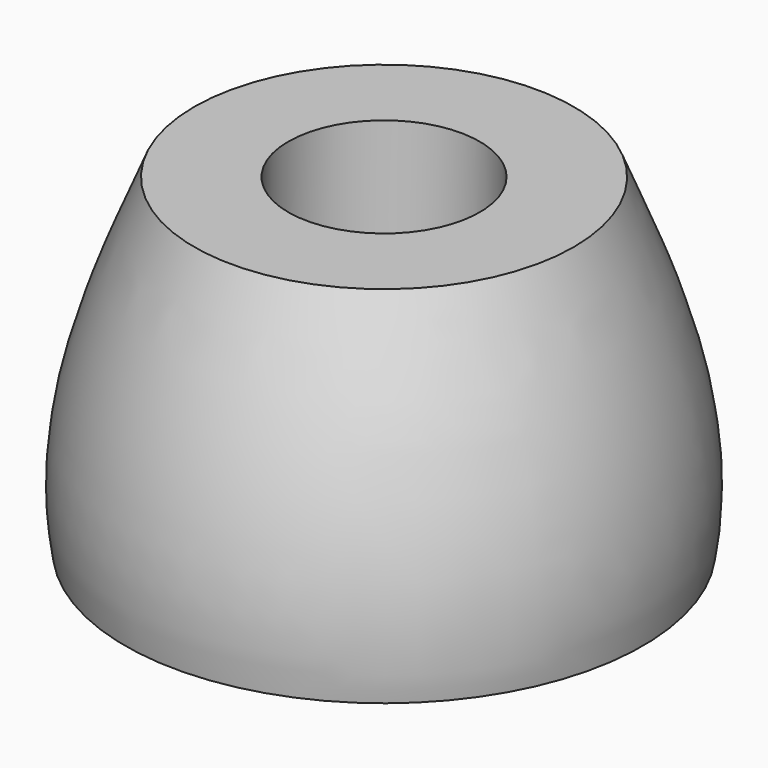
from build123d import *

# Parameters (mm, degrees)
F2_R     = 2
F3_DEPTH = 46.8


with BuildPart() as f1:
    # F0 (on Front) → F1 (revolve)
    with BuildSketch(Plane.XZ):
        with BuildLine():
            Line((-11, 0), (0, 0))
            Line((0, 0), (0, 5.96789))
            Line((0, 5.96789), (-4.067663, 5.96789))
            Line((-4.067663, 5.96789), (-4.067663, 13.96789))
            Line((-4.067663, 13.96789), (-8.067663, 13.96789))
            add(Edge.make_bspline(
                [(-11, 0), (-11.920874, 5.05734), (-9.753442, 9.873853), (-8.067663, 13.96789)],
                knots=[0, 0, 0, 0, 14.272371, 14.272371, 14.272371, 14.272371], degree=3))
        make_face()
    revolve(axis=Axis((0, 0, 2.983945), (0, 0, -1)))

    # F2 (on Top) → F3 (cut)
    with BuildSketch(Plane.XY):
        Circle(F2_R)
    extrude(amount=F3_DEPTH, mode=Mode.SUBTRACT)


solid = f1.part
